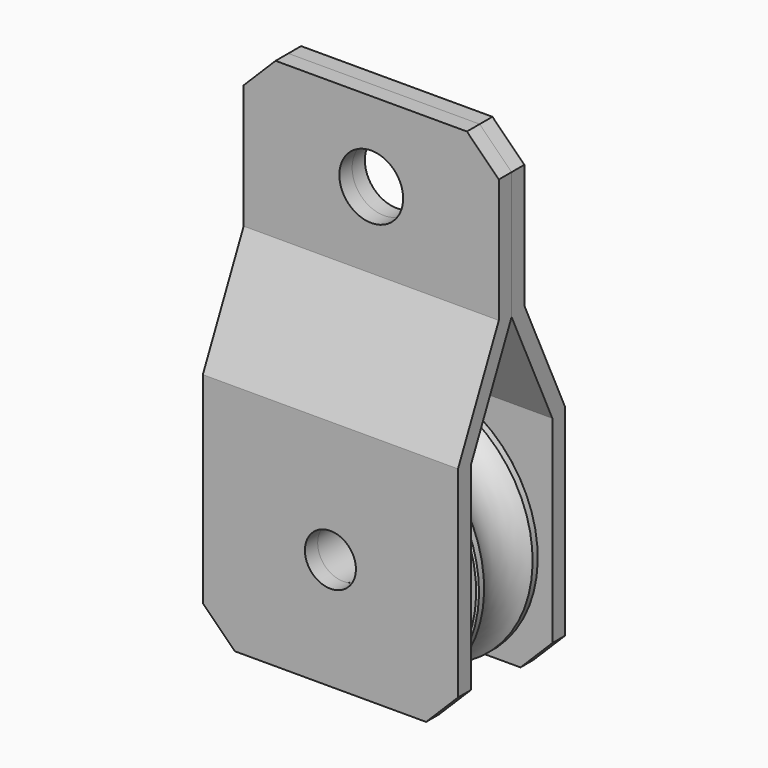
from build123d import *

# Parameters (mm, degrees)
F2_SIZE   = 0.5
F3_W      = 12
F3_H      = 11
F9_DEPTH  = 40
F10_R     = 8
F10_R_2   = 10
F11_DEPTH = 37.001
F12_SIZE  = 10


with BuildPart() as f1:
    # F0 (on Right) → F1 (revolve)
    with BuildSketch(Plane.YZ):
        with BuildLine():
            Line((-12, 39), (-12, 17))
            Line((-12, 17), (-6, 17))
            Line((-6, 17), (-6, 21))
            Line((-6, 21), (12, 21))
            Line((12, 21), (12, 39))
            Line((12, 39), (9.5, 39))
            ThreePointArc((9.5, 39), (0, 34), (-9.5, 39))
            Line((-9.5, 39), (-12, 39))
        make_face()
    revolve(axis=Axis((0, -0.299999, 0), (0, 1, 0)))

    # F2
    f2_edges = [f1.edges().sort_by_distance(p)[0] for p in [
        (0, 12, -39),
        (0, -12, -39),
    ]]
    chamfer(f2_edges, length=F2_SIZE)


with BuildPart() as f4:
    # F3 (on Right) → F4 (revolve)
    with BuildSketch(Plane.YZ):
        with Locations((0, 15.5)):
            Rectangle(F3_W, F3_H)
    revolve(axis=Axis((0, -1.944625, 0), (0, 1, 0)))


with BuildPart() as f6:
    # F5 (on Right) → F6 (revolve)
    with BuildSketch(Plane.YZ):
        Polygon((6, 10), (4, 10), (4, 8), (16, 8), (16, 12), (6, 12), align=None)
    revolve(axis=Axis((0, -0.394324, 0), (0, 1, 0)))


with BuildPart() as f7_1:
    # F7: instance of F6
    add(f6.part.mirror(Plane.XZ))


with BuildPart() as f9:
    # F8 (on Right) → F9 (new body, symmetric)
    with BuildSketch(Plane.YZ):
        Polygon((0, 71.467376), (16, 37), (16, -35), (21, -35), (21, 38.103945), (5, 72.571321), (5, 121.467376), (0, 121.467376), align=None)
    extrude(amount=F9_DEPTH, both=True)

    # F10 (on face) → F11 (cut, through all)
    with BuildSketch(Plane(origin=(0, 21, 0), x_dir=(-1, 0, 0), z_dir=(0, 1, 0))):
        Circle(F10_R)
        with Locations((0, 96.467376)):
            Circle(F10_R_2)
    extrude(amount=-F11_DEPTH, mode=Mode.SUBTRACT)

    # F12
    f12_edges = [f9.edges().sort_by_distance(p)[0] for p in [
        (40, 2.5, 121.467376),
        (-40, 2.5, 121.467376),
        (40, 18.5, -35),
        (-40, 18.5, -35),
    ]]
    chamfer(f12_edges, length=F12_SIZE)


with BuildPart() as f13_1:
    # F13: instance of F9
    add(f9.part.mirror(Plane.XZ))


solid = Compound([f1.part, f4.part, f6.part, f7_1.part, f9.part, f13_1.part])
